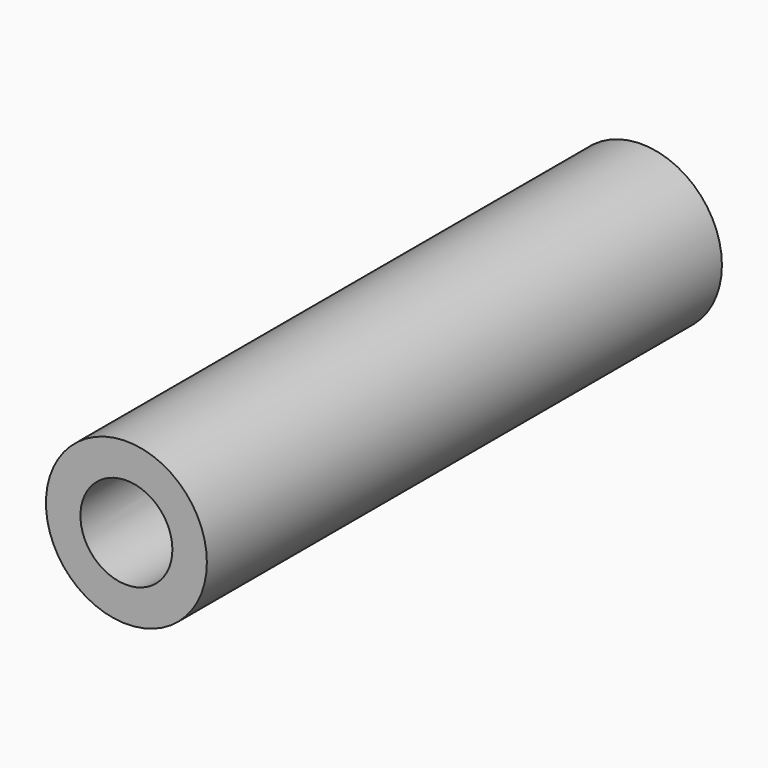
from build123d import *

# Parameters (mm, degrees)
F0_R     = 11.1125
F1_DEPTH = 44.45
F2_R     = 6.35
F3_DEPTH = 88.9
F4_R     = 1.7907
F5_DEPTH = 25.4
F6_R     = 1.7907
F7_DEPTH = 25.4


with BuildPart() as f1:
    # F0 (on Front) → F1 (new body, symmetric)
    with BuildSketch(Plane.XZ):
        Circle(F0_R)
    extrude(amount=F1_DEPTH, both=True)

    # F2 (on face) → F3 (cut)
    with BuildSketch(Plane.XZ.offset(44.45)):
        Circle(F2_R)
    extrude(amount=-F3_DEPTH, mode=Mode.SUBTRACT)

    # F4 (on Right) → F5 (cut)
    with BuildSketch(Plane.YZ):
        with Locations((31.6225287077, 0)):
            Circle(F4_R)
    extrude(amount=-F5_DEPTH, mode=Mode.SUBTRACT)

    # F6 (on Right) → F7 (cut)
    with BuildSketch(Plane.YZ):
        with Locations((-31.7074609353, 0)):
            Circle(F6_R)
    extrude(amount=-F7_DEPTH, mode=Mode.SUBTRACT)


solid = f1.part
